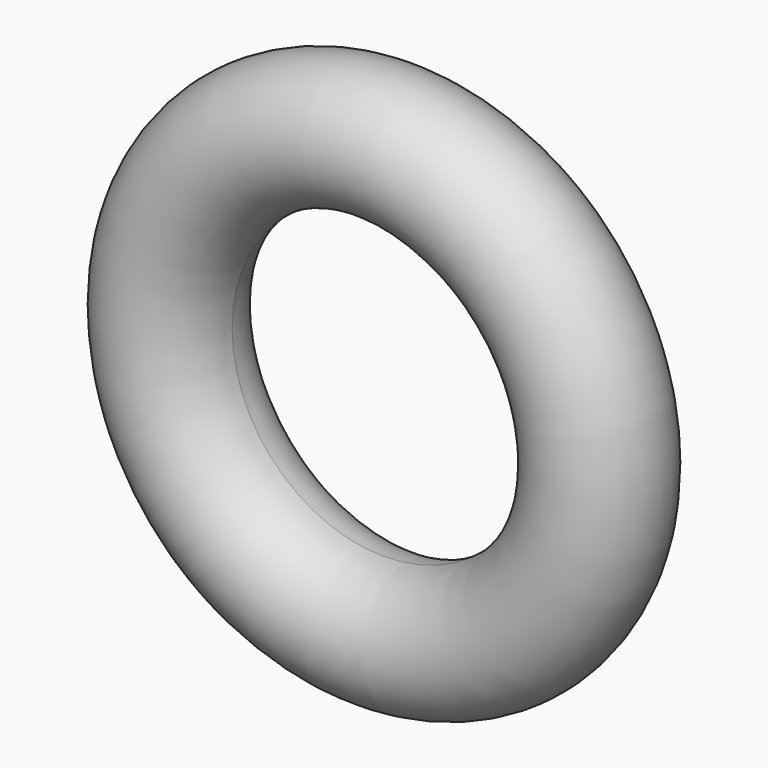
from build123d import *


with BuildPart() as f2:
    # F2: sweep along a path in F0
    with BuildLine(Plane.XZ) as f2_path:
        CenterArc((0, 0), 6, 0, 360)
    # F1 (on Right) → F2 (sweep)
    with BuildSketch(Plane.YZ):
        with BuildLine():
            ThreePointArc((0, 4.235), (1.248043, 4.751957), (1.765, 6))
            ThreePointArc((1.765, 6), (-1.248043, 7.248043), (0, 4.235))
        make_face()
    sweep(path=f2_path.line)


solid = f2.part
